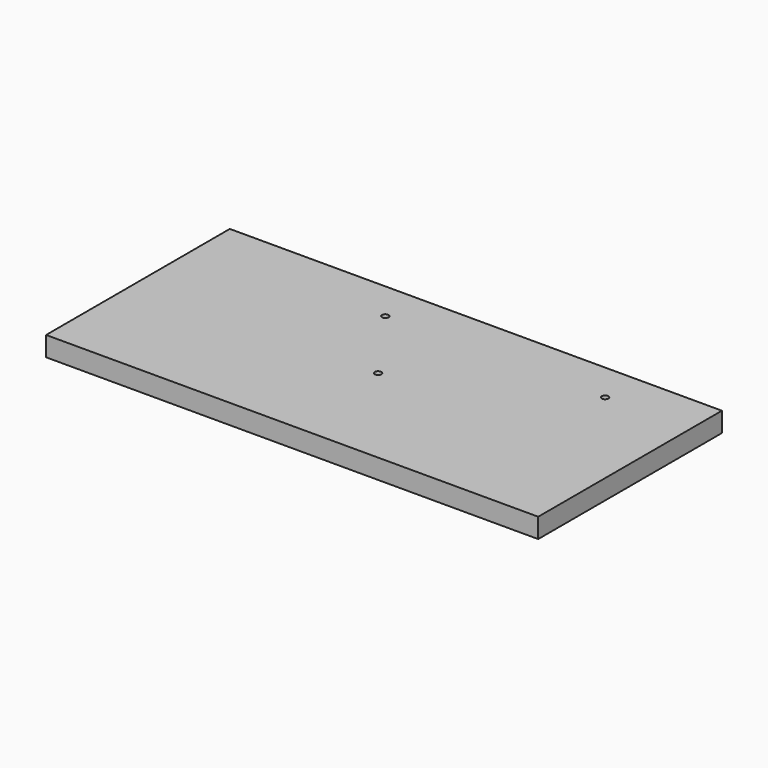
from build123d import *

# Parameters (mm, degrees)
F0_W     = 750
F0_H     = 350
F1_DEPTH = 30
F2_R     = 5
F3_DEPTH = 20
F4_R     = 5
F5_DEPTH = 20
F6_R     = 5
F7_DEPTH = 20


with BuildPart() as f1:
    # F0 (on Top) → F1 (new body)
    with BuildSketch(Plane.XY):
        with Locations((-360.495249, 158.737055)):
            Rectangle(F0_W, F0_H)
    extrude(amount=F1_DEPTH)

    # F2 (on face) → F3 (cut)
    with BuildSketch(Plane.XY.offset(30)):
        with Locations((-365.495249, 153.737055)):
            Circle(F2_R)
    extrude(amount=-F3_DEPTH, mode=Mode.SUBTRACT)

    # F4 (on face) → F5 (cut)
    with BuildSketch(Plane.XY.offset(30)):
        with Locations((-450.495249, 273.737055)):
            Circle(F4_R)
    extrude(amount=-F5_DEPTH, mode=Mode.SUBTRACT)

    # F6 (on face) → F7 (cut)
    with BuildSketch(Plane.XY.offset(30)):
        with Locations((-115.495249, 273.737055)):
            Circle(F6_R)
    extrude(amount=-F7_DEPTH, mode=Mode.SUBTRACT)


solid = f1.part
